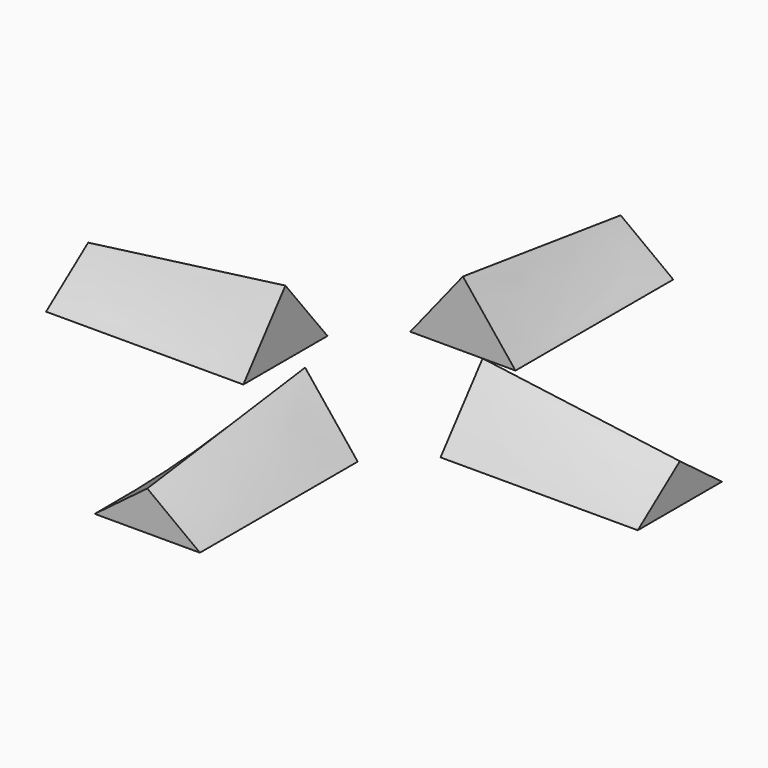
from build123d import *


with BuildPart() as f4:
    # F1 (on offset) → F4 section 0
    with BuildSketch(Plane.XZ.offset(45)):
        Polygon((0, 6), (-8, 0), (8, 0), align=None)
    # F3 (on offset) → F4 section 1
    with BuildSketch(Plane.XZ.offset(15)):
        Polygon((0, 10), (-8, 0), (8, 0), align=None)
    loft()


with BuildPart() as f5_1:
    # F5: instance of F4
    add(f4.part.mirror(Plane.XZ))


with BuildPart() as f8_1:
    # F8: instance of F4
    add(f4.part.mirror(Plane(origin=(0, 0, 0), x_dir=(-0.7071067812, -0.7071067812, 0), z_dir=(-0.7071067812, 0.7071067812, 0))))


with BuildPart() as f8_2:
    # F8: instance of F5_1
    add(f5_1.part.mirror(Plane(origin=(0, 0, 0), x_dir=(-0.7071067812, -0.7071067812, 0), z_dir=(-0.7071067812, 0.7071067812, 0))))


solid = Compound([f4.part, f5_1.part, f8_1.part, f8_2.part])
